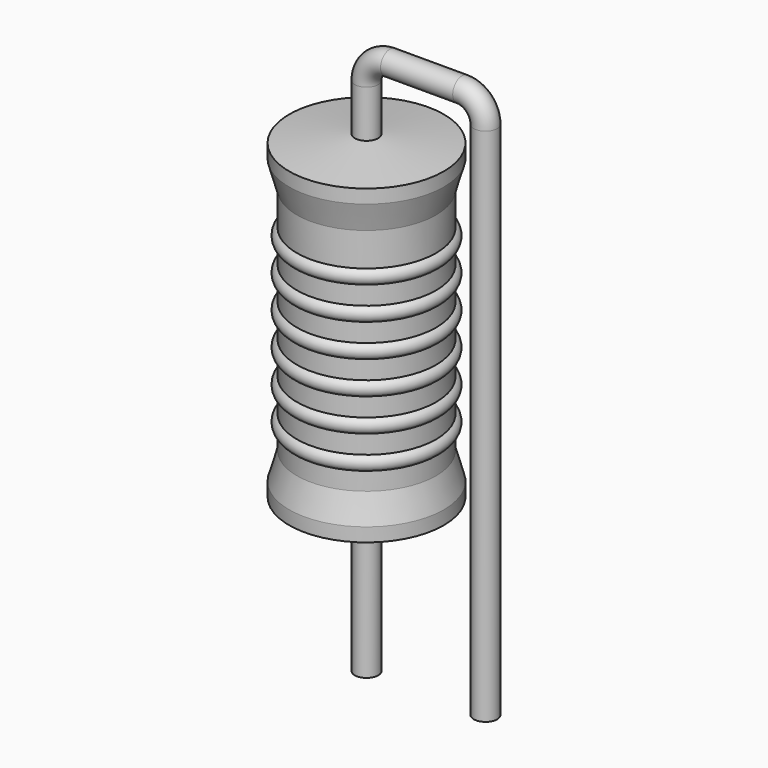
from build123d import *

# Parameters (mm, degrees)
SKETCH_R = 0.25


with BuildPart() as revolution:
    # Sketch002 → Revolution (revolve)
    with BuildSketch(Plane.XZ):
        Polygon((0, 0.1), (0, 7.1), (0.1875, 7.1), (1.65, 6.925), (1.65, 6.6325), (1.485, 6.05), (1.485, 1.15), (1.65, 0.5675), (1.65, 0.275), (0.1875, 0.1), align=None)
    revolve(axis=Axis((0, 0, 0), (0, 0, 1)))


with BuildPart() as sweep_body:
    # Sweep: sweep along a path in Sketch001
    with BuildLine(Plane.XZ) as sweep_path:
        Line((0, -3), (0, 8.1))
        ThreePointArc((0, 8.1), (0.146445, 8.453551), (0.499995, 8.6))
        Line((0.499995, 8.6), (2.04, 8.6))
        ThreePointArc((2.04, 8.6), (2.393553, 8.453553), (2.54, 8.1))
        Line((2.54, 8.1), (2.54, -3))
    # Sketch → Sweep (sweep)
    with BuildSketch(Plane.XY.offset(-2)):
        Circle(SKETCH_R)
    sweep(path=sweep_path.line)


with BuildPart() as obj1:
    # Sketch003 → Revolution001 (revolve)
    with BuildSketch(Plane.XZ):
        with BuildLine():
            Line((1.32, 5.72), (1.32, 1.15))
            Line((1.32, 1.15), (1.419, 1.15))
            Line((1.419, 1.15), (1.419, 1.52))
            ThreePointArc((1.419, 1.52), (1.584, 1.685), (1.419, 1.85))
            Line((1.419, 1.85), (1.419, 2.22))
            ThreePointArc((1.419, 2.22), (1.584, 2.385), (1.419, 2.55))
            Line((1.419, 2.55), (1.419, 2.92))
            ThreePointArc((1.419, 2.92), (1.584, 3.085), (1.419, 3.25))
            Line((1.419, 3.25), (1.419, 3.62))
            ThreePointArc((1.419, 3.62), (1.584, 3.785), (1.419, 3.95))
            Line((1.419, 3.95), (1.419, 4.32))
            ThreePointArc((1.419, 4.32), (1.584, 4.485), (1.419, 4.65))
            Line((1.419, 4.65), (1.419, 5.02))
            ThreePointArc((1.419, 5.02), (1.584, 5.185), (1.419, 5.35))
            Line((1.419, 5.72), (1.419, 5.35))
            Line((1.32, 5.72), (1.419, 5.72))
        make_face()
    revolve(axis=Axis((0, 0, 0), (0, 0, 1)))

    # obj1: union Revolution, Sweep body
    add(revolution.part)
    add(sweep_body.part)


solid = obj1.part
